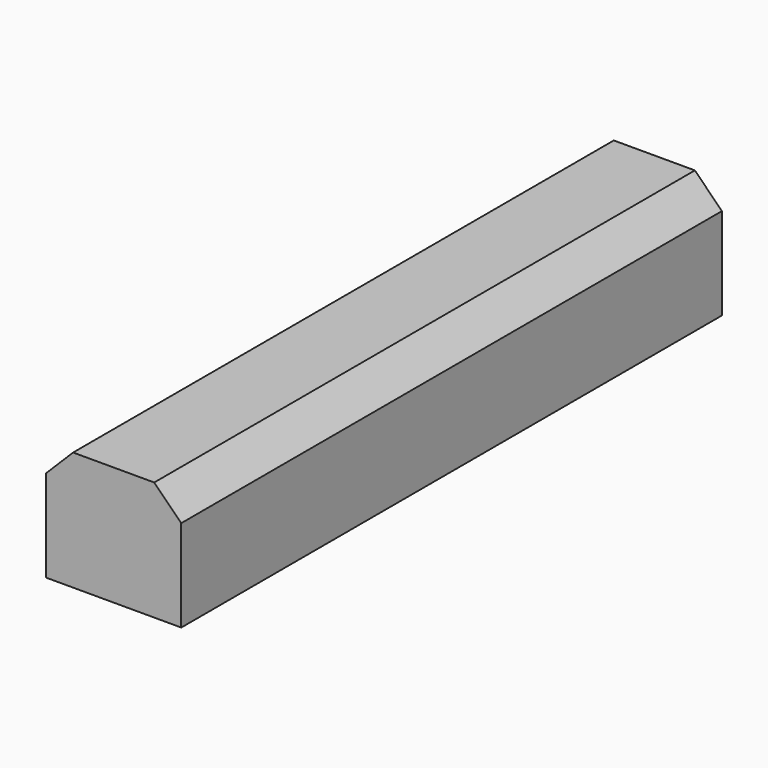
from build123d import *

# Parameters (mm, degrees)
F0_W     = 12.7
F0_H     = 63.5
F1_DEPTH = 11.176
F2_SIZE  = 2.54


with BuildPart() as f1:
    # F0 (on Top) → F1 (new body)
    with BuildSketch(Plane.XY):
        with Locations((12.416211, -6.923613)):
            Rectangle(F0_W, F0_H)
    extrude(amount=F1_DEPTH)

    # F2
    f2_edges = [f1.edges().sort_by_distance(p)[0] for p in [
        (6.066211, -6.923613, 11.176),
        (18.766211, -6.923613, 11.176),
    ]]
    chamfer(f2_edges, length=F2_SIZE)


solid = f1.part
